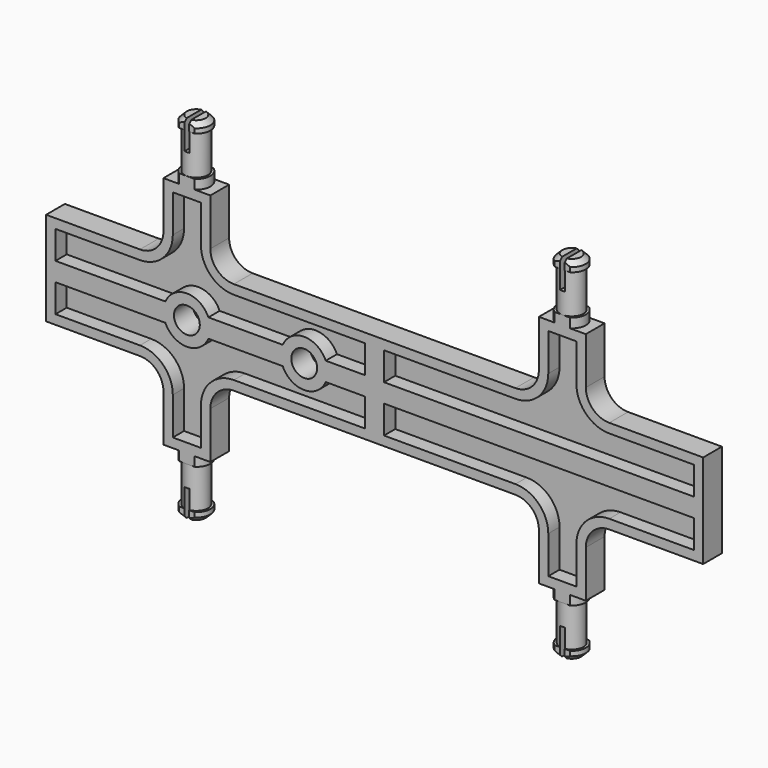
from build123d import *

# Parameters (mm, degrees)
F1_DEPTH  = 2.5
F2_T      = -2
F5_SIZE   = 1
F6_W      = 75
F6_H      = 5
F6_R      = 2
F7_DEPTH  = 37.501
F8_W      = 1
F8_H      = 7.945
F9_DEPTH  = 6
F12_R     = 5
F13_DEPTH = 5
F15_D     = 5.5


with BuildPart() as f1:
    # F0 (on Front) → F1 (new body, symmetric)
    with BuildSketch(Plane.XZ):
        with BuildLine():
            Line((0, 10), (0, 0))
            Line((0, 0), (70, 0))
            Line((70, 0), (70, 10))
            Line((70, 10), (50, 10))
            ThreePointArc((50, 10), (46.4644660941, 11.4644660941), (45, 15))
            Line((45, 15), (45, 25))
            Line((45, 25), (35, 25))
            Line((35, 25), (35, 15))
            ThreePointArc((35, 15), (33.5355339059, 11.4644660941), (30, 10))
            Line((30, 10), (0, 10))
        make_face()
    extrude(amount=F1_DEPTH, both=True)

    # F2
    f2_openings = [f1.faces().sort_by_distance(p)[0] for p in [
        (35.933685, -2.5, 7.254637),
    ]]
    offset(amount=F2_T, openings=f2_openings)

    # F3 (on Front) → F4 (revolve)
    with BuildSketch(Plane.XZ):
        Polygon((40, 25), (40, 37.5), (37, 37.5), (37, 35.5), (37.5, 35.5), (37.5, 27), (37, 27), (37, 25), align=None)
    revolve(axis=Axis((40, 0, 31.25), (0, 0, 1)))

    # F5
    f5_edges = [f1.edges().sort_by_distance(p)[0] for p in [
        (43, 0, 37.5),
    ]]
    chamfer(f5_edges, length=F5_SIZE)

    # F6 (on face) → F7 (intersect, through all)
    with BuildSketch(Plane.XY.offset(37.5)):
        with Locations((35.3798213182, 0)):
            Rectangle(F6_W, F6_H)
        with Locations((40, 0)):
            Circle(F6_R, mode=Mode.SUBTRACT)
        with Locations((40, 0)):
            Circle(F6_R)
    extrude(amount=-F7_DEPTH, mode=Mode.INTERSECT)

    # F8 (on face) → F9 (cut)
    with BuildSketch(Plane.XY.offset(37.5)):
        with Locations((40, -0.2165465654)):
            Rectangle(F8_W, F8_H)
    extrude(amount=-F9_DEPTH, mode=Mode.SUBTRACT)

    # F10: F1 across plane


with BuildPart() as f1_1:
    add(f1.part)
    add(f1.part.mirror(Plane.XY))

    # F11: F1 across plane


with BuildPart() as f1_2:
    add(f1_1.part)
    add(f1_1.part.mirror(Plane.YZ))

    # F12 (on face) → F13 (join, through all)
    with BuildSketch(Plane.XZ.offset(2.5)):
        with Locations((-40, 0)):
            Circle(F12_R)
        with Locations((-15, 0)):
            Circle(F12_R)
    extrude(amount=-F13_DEPTH)

    # F15 (through all)
    with Locations(Plane.XZ.offset(2.5)):
        with Locations((-40, 0), (-15, 0)):
            Hole(F15_D / 2)


solid = f1_2.part
